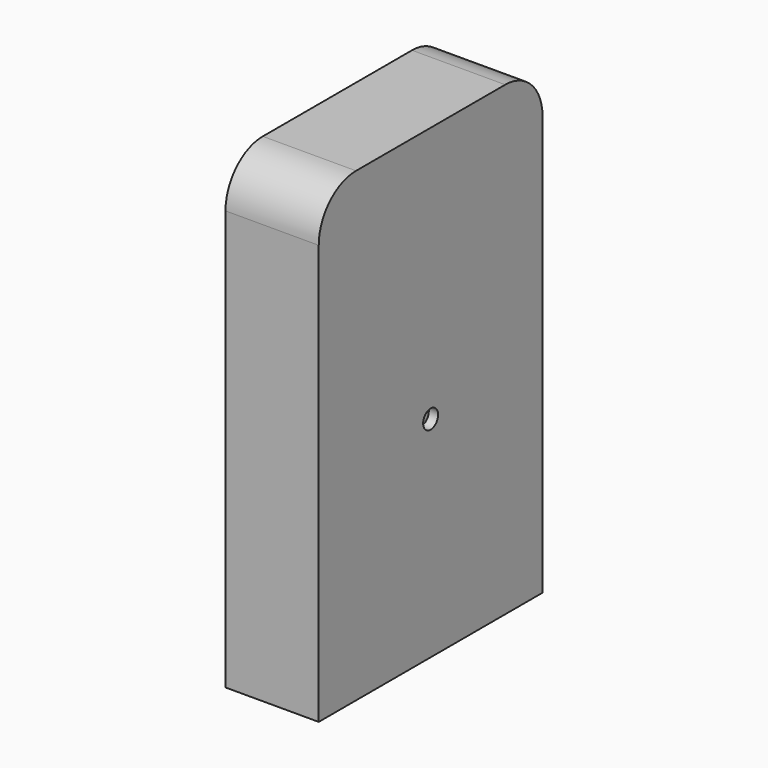
from build123d import *

# Parameters (mm, degrees)
F0_W     = 127
F0_H     = 76.2
F1_DEPTH = 25.4
F3_R     = 12.7
F4_T     = -2.54
F6_D     = 5.1054
F7_ANGLE = 90


with BuildPart() as f1:
    # F0 (on Top) → F1 (new body)
    with BuildSketch(Plane.XY):
        Rectangle(F0_W, F0_H)
    extrude(amount=F1_DEPTH)

    # F3
    f3_edges = [f1.edges().sort_by_distance(p)[0] for p in [
        (-63.5, -38.1, 12.7),
        (-63.5, 38.1, 12.7),
    ]]
    fillet(f3_edges, radius=F3_R)

    # F4
    f4_openings = [f1.faces().sort_by_distance(p)[0] for p in [
        (63.5, 0, 12.7),
    ]]
    offset(amount=F4_T, openings=f4_openings)

    # F6 (through all)
    with Locations(Plane.XY.offset(25.4)):
        with Locations((6.35, 0)):
            Hole(F6_D / 2)


with BuildPart() as f1_1:
    # F7: moved
    add(f1.part.rotate(Axis((63.5, 0, 25.4), (0, 1, 0)), F7_ANGLE))


solid = f1_1.part
